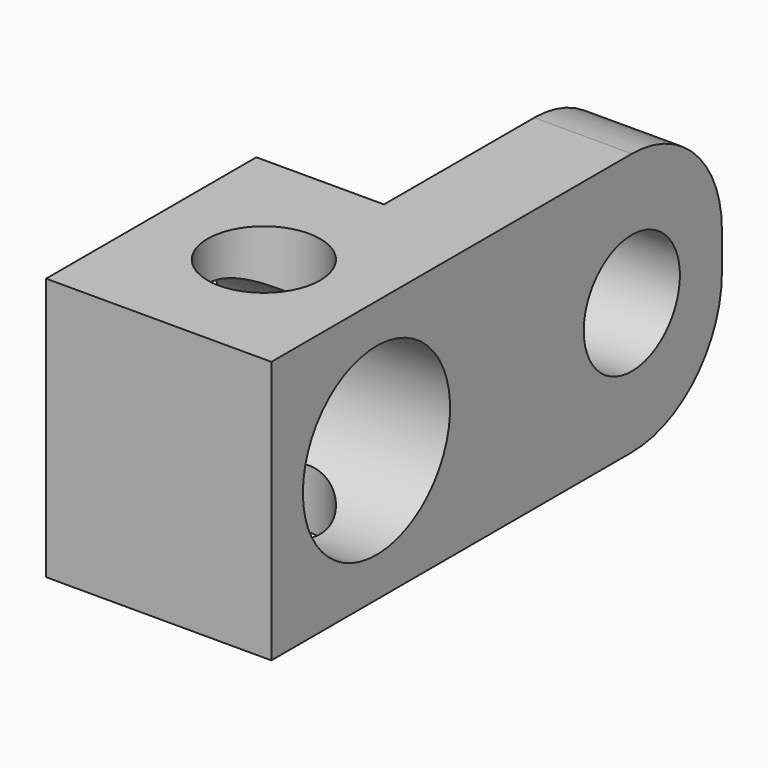
from build123d import *

# Parameters (mm, degrees)
F0_W      = 6
F0_H      = 15
F1_DEPTH  = 7
F2_W      = 3.4
F2_H      = 8
F3_DEPTH  = 25
F4_R      = 3
F5_R      = 2.45
F6_DEPTH  = 25
F7_R      = 1.6
F8_DEPTH  = 25
F9_R      = 1.5
F10_DEPTH = 25


with BuildPart() as f1:
    # F0 (on Top) → F1 (new body)
    with BuildSketch(Plane.XY):
        with Locations((3, 7.5)):
            Rectangle(F0_W, F0_H)
    extrude(amount=-F1_DEPTH)

    # F2 (on face) → F3 (cut)
    with BuildSketch(Plane.XY):
        with Locations((1.7, 11)):
            Rectangle(F2_W, F2_H)
    extrude(amount=-F3_DEPTH, mode=Mode.SUBTRACT)

    # F4
    f4_edges = [f1.edges().sort_by_distance(p)[0] for p in [
        (4.7, 15, 0),
        (4.7, 15, -7),
    ]]
    fillet(f4_edges, radius=F4_R)

    # F5 (on face) → F6 (cut)
    with BuildSketch(Plane(origin=(0, 0, 0), x_dir=(0, -1, 0), z_dir=(-1, 0, 0))):
        with Locations((-3.5, -3.5)):
            Circle(F5_R)
    extrude(amount=-F6_DEPTH, mode=Mode.SUBTRACT)

    # F7 (on face) → F8 (cut)
    with BuildSketch(Plane(origin=(3.4, 0, 0), x_dir=(0, -1, 0), z_dir=(-1, 0, 0))):
        with Locations((-12, -3.5)):
            Circle(F7_R)
    extrude(amount=-F8_DEPTH, mode=Mode.SUBTRACT)

    # F9 (on face) → F10 (cut)
    with BuildSketch(Plane(origin=(0, 0, -7), x_dir=(1, 0, 0), z_dir=(0, 0, -1))):
        with Locations((3, -3.5)):
            Circle(F9_R)
    extrude(amount=-F10_DEPTH, mode=Mode.SUBTRACT)


solid = f1.part
